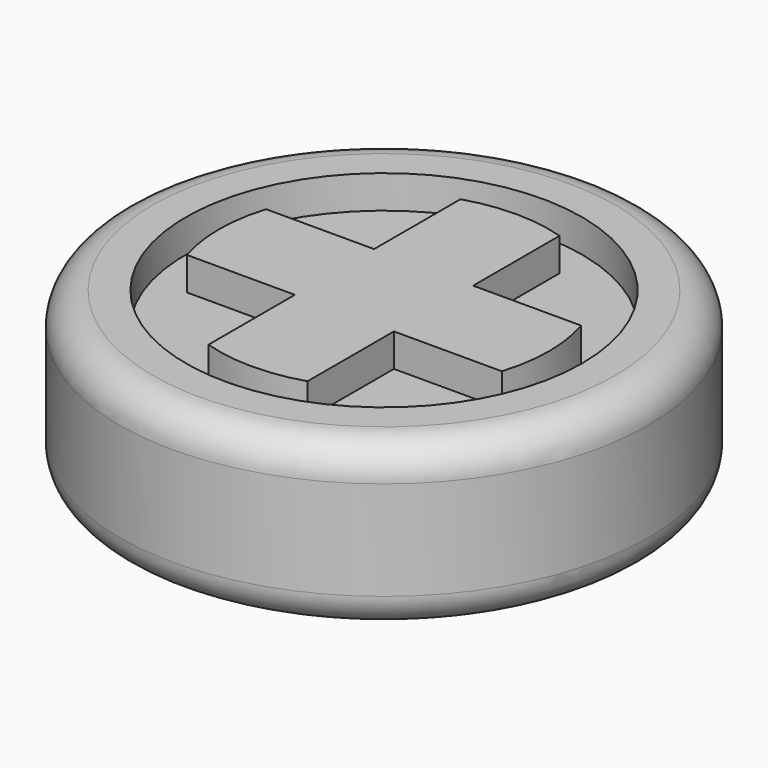
from build123d import *

# Parameters (mm, degrees)
F0_R     = 20
F1_DEPTH = 12.5
F2_R     = 2.5
F3_R     = 2.5
F4_R     = 15
F5_DEPTH = 2.5


with BuildPart() as f1:
    # F0 (on Top) → F1 (new body)
    with BuildSketch(Plane.XY):
        Circle(F0_R)
    extrude(amount=F1_DEPTH)

    # F2
    f2_edges = [f1.edges().sort_by_distance(p)[0] for p in [
        (-20, 0, 12.5),
    ]]
    fillet(f2_edges, radius=F2_R)

    # F3
    f3_edges = [f1.edges().sort_by_distance(p)[0] for p in [
        (-20, 0, 0),
    ]]
    fillet(f3_edges, radius=F3_R)

    # F4 (on face) → F5 (cut)
    with BuildSketch(Plane.XY.offset(12.5)):
        Circle(F4_R)
        with BuildLine():
            Line((-3.75, 3.75), (-3.75, 11.92424))
            ThreePointArc((-3.75, 11.92424), (0, 12.5), (3.75, 11.92424))
            Line((3.75, 11.92424), (3.75, 3.75))
            Line((3.75, 3.75), (11.92424, 3.75))
            ThreePointArc((11.92424, 3.75), (12.5, 0), (11.92424, -3.75))
            Line((11.92424, -3.75), (3.75, -3.75))
            Line((3.75, -3.75), (3.75, -11.92424))
            ThreePointArc((3.75, -11.92424), (0, -12.5), (-3.75, -11.92424))
            Line((-3.75, -11.92424), (-3.75, -3.75))
            Line((-3.75, -3.75), (-11.92424, -3.75))
            ThreePointArc((-11.92424, -3.75), (-12.5, 0), (-11.92424, 3.75))
            Line((-11.92424, 3.75), (-3.75, 3.75))
        make_face(mode=Mode.SUBTRACT)
    extrude(amount=-F5_DEPTH, mode=Mode.SUBTRACT)


solid = f1.part
